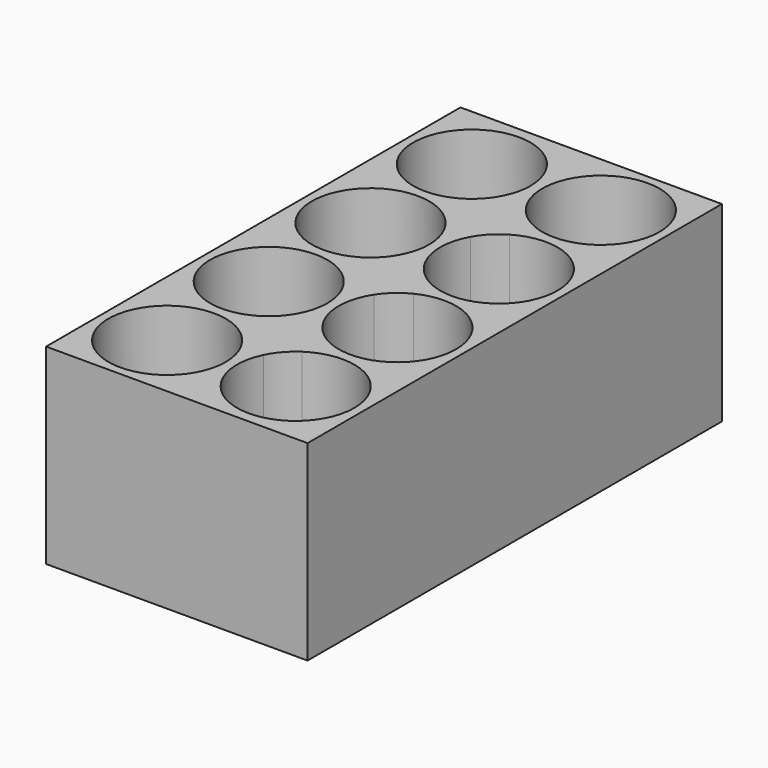
from build123d import *

# Parameters (mm, degrees)
F0_W     = 34.1488035043
F0_H     = 67.6431837756
F0_R     = 7.6605394092
F1_DEPTH = 25
F2_DEPTH = 3


with BuildPart() as f1:
    # F0 (on Top) → F1 (new body)
    with BuildSketch(Plane.XY):
        with Locations((0.7744015018, 1.3609023431)):
            Rectangle(F0_W, F0_H)
        with Locations((-7.5245182993, -23.6748641295)):
            Circle(F0_R, mode=Mode.SUBTRACT)
        with BuildLine():
            ThreePointArc((-4.4142808332, -14.0555724502), (-13.9683270624, -2.8945478425), (0.1199934926, -7.0619803354))
            ThreePointArc((0.1199934926, -7.0619803354), (-0.2413532269, -9.3869857372), (-1.2913040231, -11.4926506906))
            Line((-1.2913040231, -11.4926506906), (4.8084446202, -17.0296482401))
            ThreePointArc((4.8084446202, -17.0296482401), (12.6710471032, -16.6522996873), (16.7153386619, -23.4055667132))
            ThreePointArc((16.7153386619, -23.4055667132), (7.325763647, -30.8684280891), (2.1747699265, -20.0367300427))
            Line((2.1747699265, -20.0367300427), (-4.4142808332, -14.0555724502))
        make_face(mode=Mode.SUBTRACT)
        with BuildLine():
            ThreePointArc((-3.5289805266, 3.0072409683), (-14.2166011068, 13.2809694177), (0.1279977639, 9.5383482564))
            ThreePointArc((0.1279977639, 9.5383482564), (-0.1034998988, 7.6693370826), (-0.7840014, 5.9132870711))
            Line((-0.7840014, 5.9132870711), (5.6630260945, 0.0610499502))
            ThreePointArc((5.6630260945, 0.0610499502), (13.1010011054, -0.2973622306), (16.7203240141, -6.8052369403))
            ThreePointArc((16.7203240141, -6.8052369403), (6.8679587677, -14.1455205547), (2.6534912072, -2.6048477983))
            Line((2.6534912072, -2.6048477983), (-3.5289805266, 3.0072409683))
        make_face(mode=Mode.SUBTRACT)
        with BuildLine():
            ThreePointArc((-4.0343502571, 19.312089772), (-14.0997091869, 30.097386474), (0.1051701113, 26.1154925203))
            ThreePointArc((0.1051701113, 26.1154925203), (-0.1964910938, 23.9869306545), (-1.0777167259, 22.026008299))
            Line((-1.0777167259, 22.026008299), (5.1529990707, 16.3701263743))
            ThreePointArc((5.1529990707, 16.3701263743), (12.844259487, 16.4239142948), (16.7055006328, 9.7719073236))
            ThreePointArc((16.7055006328, 9.7719073236), (7.1138290124, 2.3587708468), (2.3580534133, 13.509436986))
            Line((2.3580534133, 13.509436986), (-4.0343502571, 19.312089772))
        make_face(mode=Mode.SUBTRACT)
        with Locations((9.0688136795, 26.3942769038)):
            Circle(F0_R, mode=Mode.SUBTRACT)
        with BuildLine():
            ThreePointArc((-1.0777167259, 22.026008299), (-2.3751475895, 20.4719858895), (-4.0343502571, 19.312089772))
            Line((-4.0343502571, 19.312089772), (2.3580534133, 13.509436986))
            ThreePointArc((2.3580534133, 13.509436986), (3.5655444327, 15.1253973695), (5.1529990707, 16.3701263743))
            Line((5.1529990707, 16.3701263743), (-1.0777167259, 22.026008299))
        make_face()
        with BuildLine():
            ThreePointArc((-0.7840014, 5.9132870711), (-1.9635922899, 4.2780567135), (-3.5289805266, 3.0072409683))
            Line((-3.5289805266, 3.0072409683), (2.6534912072, -2.6048477983))
            ThreePointArc((2.6534912072, -2.6048477983), (3.9802463011, -1.0709405875), (5.6630260945, 0.0610499502))
            Line((5.6630260945, 0.0610499502), (-0.7840014, 5.9132870711))
        make_face()
        with BuildLine():
            ThreePointArc((-1.2913040231, -11.4926506906), (-2.6807954338, -12.9836937095), (-4.4142808332, -14.0555724502))
            Line((-4.4142808332, -14.0555724502), (2.1747699265, -20.0367300427))
            ThreePointArc((2.1747699265, -20.0367300427), (3.2920099766, -18.3583770199), (4.8084446202, -17.0296482401))
            Line((4.8084446202, -17.0296482401), (-1.2913040231, -11.4926506906))
        make_face()
    extrude(amount=F1_DEPTH)

    # F0 (on Top) → F2 (cut)
    with BuildSketch(Plane.XY):
        with BuildLine():
            ThreePointArc((-1.0777167259, 22.026008299), (-2.3751475895, 20.4719858895), (-4.0343502571, 19.312089772))
            Line((-4.0343502571, 19.312089772), (2.3580534133, 13.509436986))
            ThreePointArc((2.3580534133, 13.509436986), (3.5655444327, 15.1253973695), (5.1529990707, 16.3701263743))
            Line((5.1529990707, 16.3701263743), (-1.0777167259, 22.026008299))
        make_face()
        with BuildLine():
            ThreePointArc((-1.2913040231, -11.4926506906), (-2.6807954338, -12.9836937095), (-4.4142808332, -14.0555724502))
            Line((-4.4142808332, -14.0555724502), (2.1747699265, -20.0367300427))
            ThreePointArc((2.1747699265, -20.0367300427), (3.2920099766, -18.3583770199), (4.8084446202, -17.0296482401))
            Line((4.8084446202, -17.0296482401), (-1.2913040231, -11.4926506906))
        make_face()
        with BuildLine():
            ThreePointArc((-0.7840014, 5.9132870711), (-1.9635922899, 4.2780567135), (-3.5289805266, 3.0072409683))
            Line((-3.5289805266, 3.0072409683), (2.6534912072, -2.6048477983))
            ThreePointArc((2.6534912072, -2.6048477983), (3.9802463011, -1.0709405875), (5.6630260945, 0.0610499502))
            Line((5.6630260945, 0.0610499502), (-0.7840014, 5.9132870711))
        make_face()
    extrude(amount=F2_DEPTH, mode=Mode.SUBTRACT)


solid = f1.part
